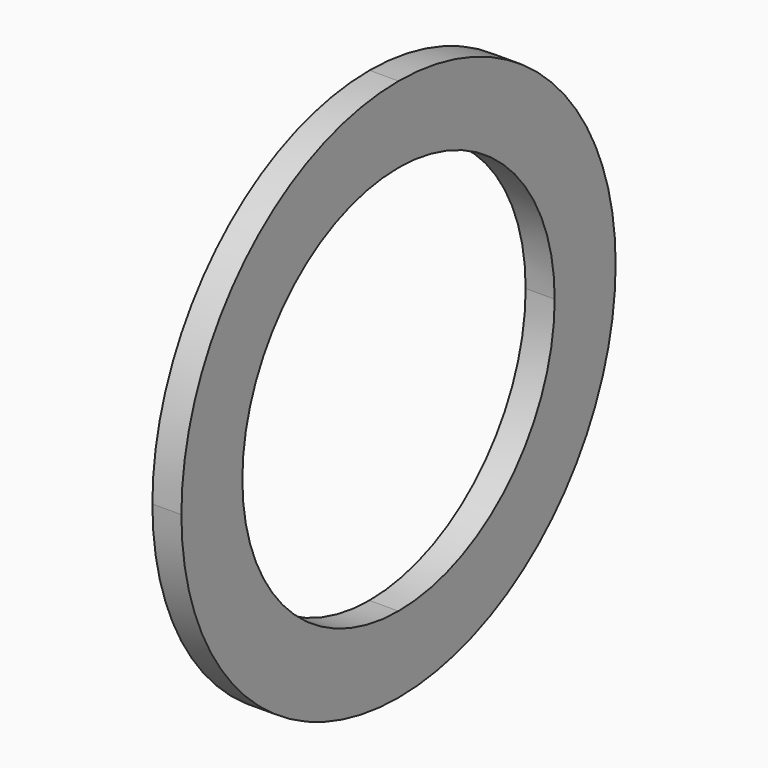
from build123d import *

# Parameters (mm, degrees)
F1_DEPTH = 1.016


with BuildPart() as f1:
    # F0 (on Right) → F1 (new body)
    with BuildSketch(Plane.YZ):
        with BuildLine():
            Line((0, 6.8326), (0, 9.4996))
            ThreePointArc((0, 9.4996), (-6.717232, 6.717232), (-9.4996, 0))
            Line((-9.4996, 0), (-6.8326, 0))
            ThreePointArc((-6.8326, 0), (-4.831378, 4.831378), (0, 6.8326))
        make_face()
        with BuildLine():
            Line((6.8326, 0), (9.4996, 0))
            ThreePointArc((9.4996, 0), (6.717232, 6.717232), (0, 9.4996))
            Line((0, 9.4996), (0, 6.8326))
            ThreePointArc((0, 6.8326), (4.831378, 4.831378), (6.8326, 0))
        make_face()
        with BuildLine():
            ThreePointArc((0, -9.4996), (6.717232, -6.717232), (9.4996, 0))
            Line((9.4996, 0), (6.8326, 0))
            ThreePointArc((6.8326, 0), (4.831378, -4.831378), (0, -6.8326))
            Line((0, -6.8326), (0, -9.4996))
        make_face()
        with BuildLine():
            ThreePointArc((-9.4996, 0), (-6.717232, -6.717232), (0, -9.4996))
            Line((0, -9.4996), (0, -6.8326))
            ThreePointArc((0, -6.8326), (-4.831378, -4.831378), (-6.8326, 0))
            Line((-6.8326, 0), (-9.4996, 0))
        make_face()
    extrude(amount=F1_DEPTH)


solid = f1.part
